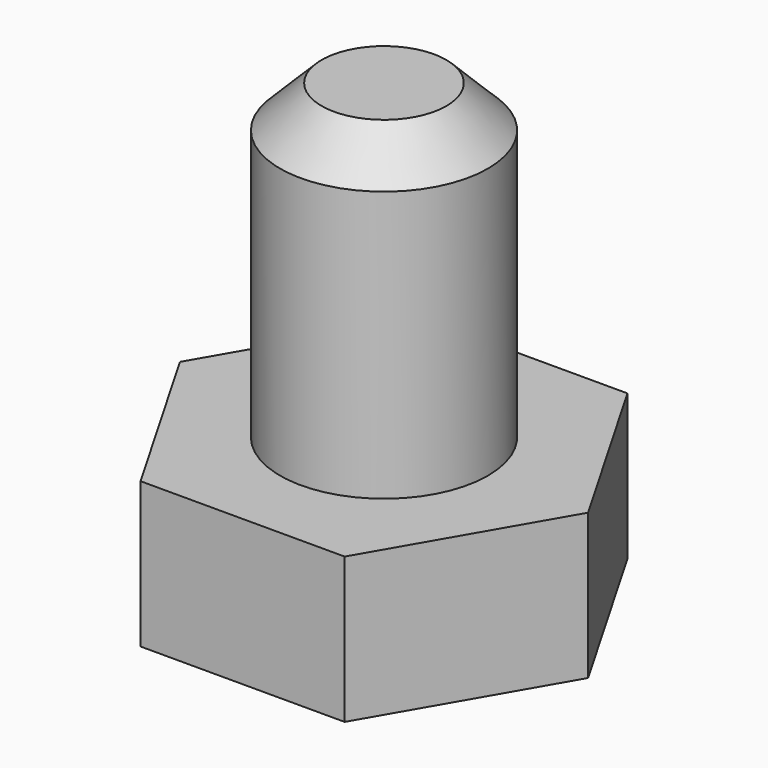
from build123d import *

# Parameters (mm, degrees)
F1_DEPTH = 7
F2_R     = 5
F3_DEPTH = 15
F4_SIZE  = 2


with BuildPart() as f1:
    # F0 (on Top) → F1 (new body)
    with BuildSketch(Plane.XY):
        Polygon((-4.907477, -8.5), (4.907477, -8.5), (9.814955, 0), (4.907477, 8.5), (-4.907477, 8.5), (-9.814955, 0), align=None)
    extrude(amount=F1_DEPTH)

    # F2 (on face) → F3 (join)
    with BuildSketch(Plane.XY.offset(7)):
        Circle(F2_R)
    extrude(amount=F3_DEPTH)

    # F4
    f4_edges = [f1.edges().sort_by_distance(p)[0] for p in [
        (-5, 0, 22),
    ]]
    chamfer(f4_edges, length=F4_SIZE)


solid = f1.part
